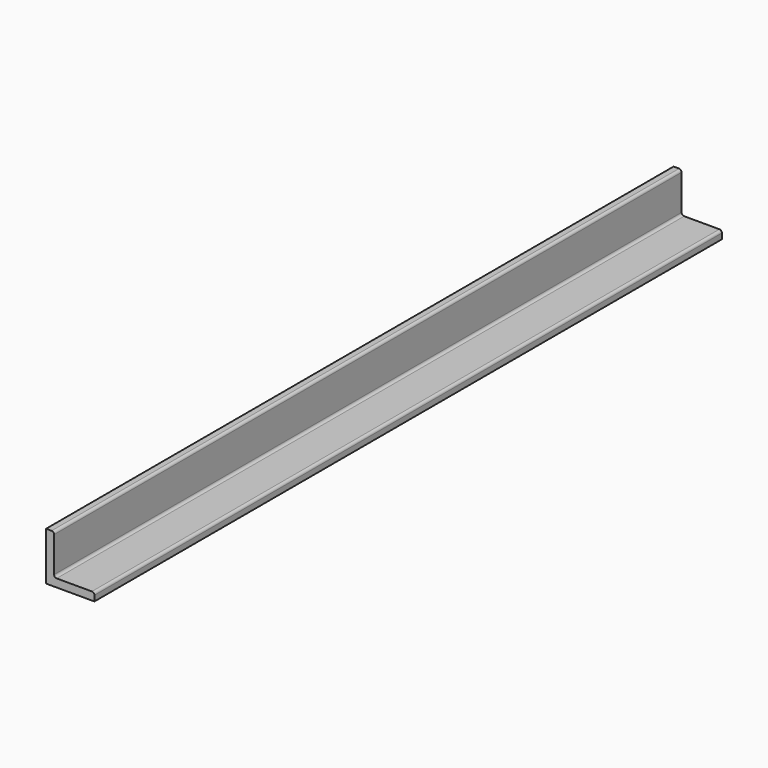
from build123d import *

# Parameters (mm, degrees)
F1_DEPTH = 310


with BuildPart() as f1:
    # F0 (on Front) → F1 (new body)
    with BuildSketch(Plane.XZ):
        with BuildLine():
            Line((2.17, 19.1), (0, 19.1))
            Line((0, 19.1), (0, 0))
            Line((0, 0), (19.1, 0))
            Line((19.1, 0), (19.1, 2.17))
            ThreePointArc((19.1, 2.17), (18.807107, 2.877107), (18.1, 3.17))
            Line((18.1, 3.17), (4.17, 3.17))
            ThreePointArc((4.17, 3.17), (3.462893, 3.462893), (3.17, 4.17))
            Line((3.17, 4.17), (3.17, 18.1))
            ThreePointArc((3.17, 18.1), (2.877107, 18.807107), (2.17, 19.1))
        make_face()
    extrude(amount=F1_DEPTH)


solid = f1.part
